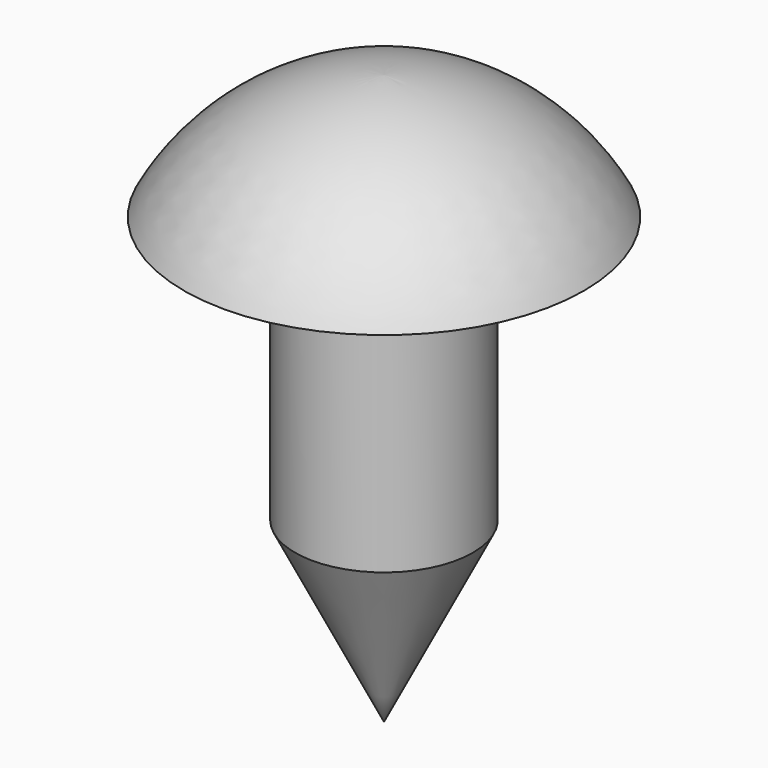
from build123d import *

# Parameters (mm, degrees)
F0_R     = 1.5
F1_DEPTH = 7.5
F4_SIZE2 = 1.5
F4_SIZE  = 3


with BuildPart() as f1:
    # F0 (on Top) → F1 (new body)
    with BuildSketch(Plane.XY):
        Circle(F0_R)
    extrude(amount=F1_DEPTH)

    # F2 (on Front) → F3 (revolve)
    with BuildSketch(Plane.XZ):
        with BuildLine():
            Line((0, 9.6), (0, 7.5))
            Line((0, 7.5), (3.375, 7.5))
            ThreePointArc((3.375, 7.5), (1.966819, 8.998906), (0, 9.6))
        make_face()
    revolve(axis=Axis((0, 0, 8.55), (0, 0, 1)))

    # F4
    f4_edges = [f1.edges().sort_by_distance(p)[0] for p in [
        (-1.5, 0, 0),
    ]]
    chamfer(f4_edges, length=F4_SIZE, length2=F4_SIZE2)


solid = f1.part
